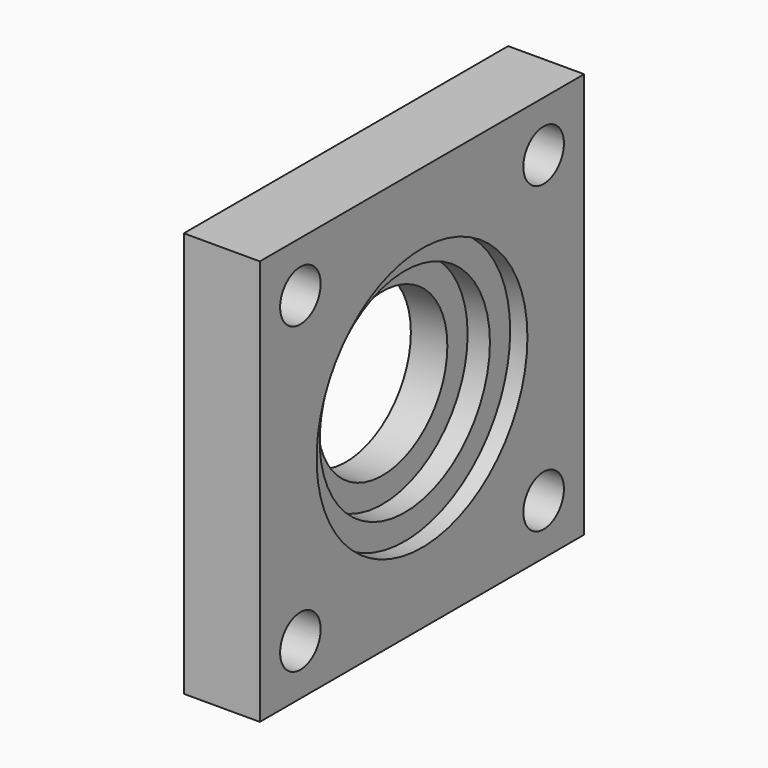
from build123d import *

# Parameters (mm, degrees)
F0_W     = 50.8
F0_H     = 50.8
F1_DEPTH = 4.7625
F2_R     = 10.16
F3_DEPTH = 9.525
F4_R     = 16.51
F5_DEPTH = 2.159
F6_R     = 3.175
F7_DEPTH = 9.525
F8_R     = 13.335
F9_DEPTH = 4.953


with BuildPart() as f1:
    # F0 (on Right) → F1 (new body, symmetric)
    with BuildSketch(Plane.YZ):
        Rectangle(F0_W, F0_H)
    extrude(amount=F1_DEPTH, both=True)

    # F2 (on face) → F3 (cut, through all)
    with BuildSketch(Plane.YZ.offset(4.7625)):
        Circle(F2_R)
    extrude(amount=-F3_DEPTH, mode=Mode.SUBTRACT)

    # F4 (on face) → F5 (cut)
    with BuildSketch(Plane.YZ.offset(4.7625)):
        Circle(F4_R)
    extrude(amount=-F5_DEPTH, mode=Mode.SUBTRACT)

    # F6 (on face) → F7 (cut, through all)
    with BuildSketch(Plane.YZ.offset(4.7625)):
        with Locations((-19.05, 19.05)):
            Circle(F6_R)
        with Locations((19.05, 19.05)):
            Circle(F6_R)
        with Locations((-19.05, -19.05)):
            Circle(F6_R)
        with Locations((19.05, -19.05)):
            Circle(F6_R)
    extrude(amount=-F7_DEPTH, mode=Mode.SUBTRACT)

    # F8 (on face) → F9 (cut)
    with BuildSketch(Plane.YZ.offset(4.7625)):
        Circle(F8_R)
    extrude(amount=-F9_DEPTH, mode=Mode.SUBTRACT)


solid = f1.part
